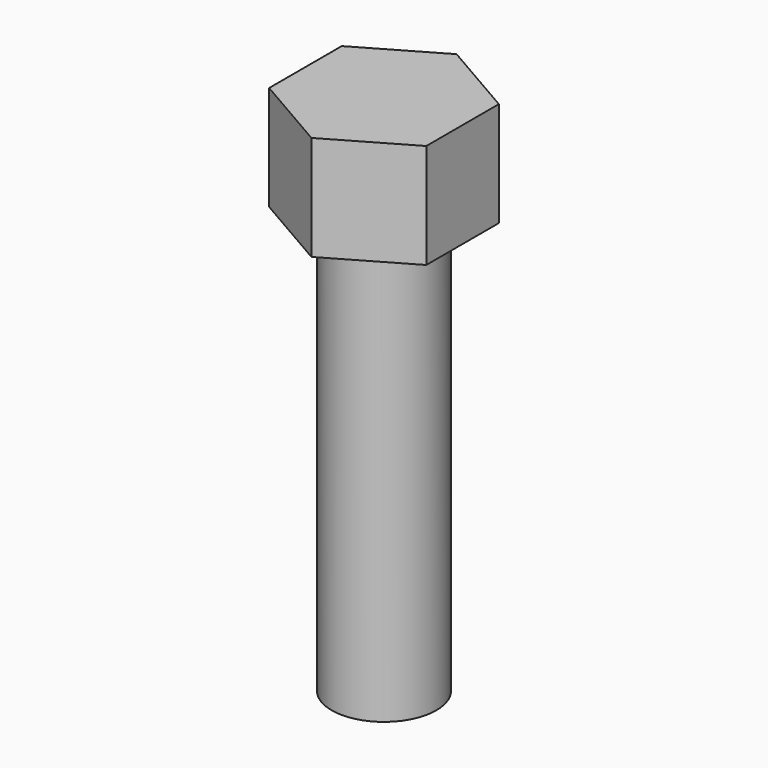
from build123d import *

# Parameters (mm, degrees)
PAD_DEPTH    = 6.35
SKETCH001_R  = 3.175
PAD001_DEPTH = 25.4


with BuildPart() as part:
    # Sketch → Pad (new body)
    with BuildSketch(Plane.XY):
        Polygon((4.7625, 2.749631), (0, 5.499261), (-4.7625, 2.749631), (-4.7625, -2.749631), (0, -5.499261), (4.7625, -2.749631), align=None)
    extrude(amount=-PAD_DEPTH)

    # Sketch001 (on Face8 of Pad) → Pad001 (join)
    with BuildSketch(Plane(origin=(0, 0, -6.35), x_dir=(1, 0, 0), z_dir=(0, 0, -1))):
        Circle(SKETCH001_R)
    extrude(amount=PAD001_DEPTH)


solid = part.part
